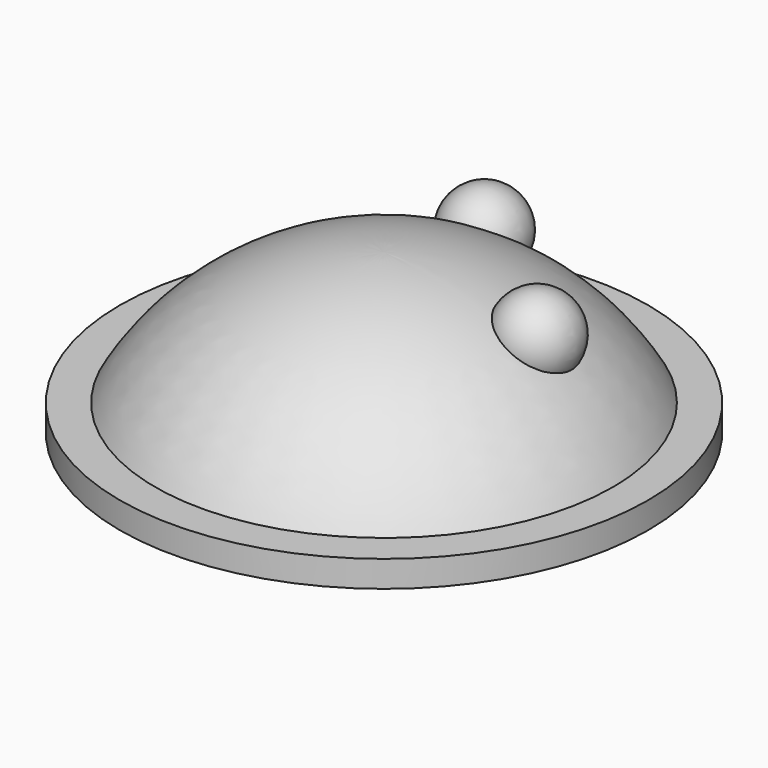
from build123d import *

# Parameters (mm, degrees)
CYLINDER_R     = 10
CYLINDER_DEPTH = 1


with BuildPart() as cylinder:
    # Cylinder → Cylinder (new body)
    with BuildSketch(Plane.XY):
        Circle(CYLINDER_R)
    extrude(amount=CYLINDER_DEPTH)


with BuildPart() as fusion:
    # Sphere → Sphere (revolve)
    with BuildSketch(Plane(origin=(0, 0, -4), x_dir=(1, 0, 0), z_dir=(0, -1, 0))):
        with BuildLine():
            ThreePointArc((9.063078, 4.226183), (5.372996, 8.433914), (0, 10))
            Line((0, 10), (0, 4.226183))
            Line((0, 4.226183), (9.063078, 4.226183))
        make_face()
    revolve(axis=Axis((0, 0, -4), (0, 0, 1)))

    # Fusion: union Cylinder
    add(cylinder.part)


with BuildPart() as sphere001:
    # Sphere001 → Sphere001 (revolve)
    with BuildSketch(Plane(origin=(5, 1, 4.5), x_dir=(1, 0, 0), z_dir=(0, -1, 0))):
        with BuildLine():
            ThreePointArc((0, -1.5), (1.5, 0), (0, 1.5))
            Line((0, 1.5), (0, -1.5))
        make_face()
    revolve(axis=Axis((5, 1, 4.5), (0, 0, 1)))


with BuildPart() as fusion001:
    # Sphere002 → Sphere002 (revolve)
    with BuildSketch(Plane(origin=(-1, 6, 4), x_dir=(1, 0, 0), z_dir=(0, -1, 0))):
        with BuildLine():
            ThreePointArc((0, -1.5), (1.5, 0), (0, 1.5))
            Line((0, 1.5), (0, -1.5))
        make_face()
    revolve(axis=Axis((-1, 6, 4), (0, 0, 1)))

    # Fusion001: union Sphere001
    add(sphere001.part)


solid = Compound([fusion.part, fusion001.part])
